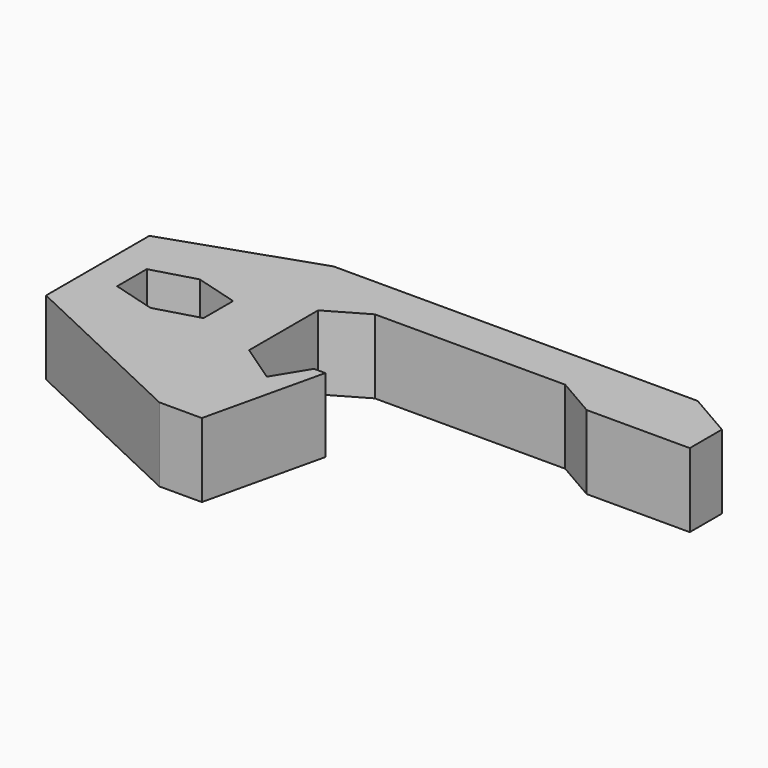
from build123d import *

# Parameters (mm, degrees)
F1_DEPTH = 6
F2_SIZE  = 1.5


with BuildPart() as f1:
    # F0 (on Top) → F1 (new body)
    with BuildSketch(Plane.XY):
        Polygon((20.780653, 12.658395), (-1.74311, 12.658395), (-17.868141, 7.144866), (-17.868141, -2.784012), (-13.30795, -4.319267), (-3.109024, -10.286578), (0.33303, -10.286578), (2.583084, -0.582101), (1.663224, -0.582101), (0, -3.286578), (-3.143075, -1.150859), (-3.143075, 5.84374), (0, 7.658395), (15.440907, 7.658395), (18.67028, 5.793917), (27.028897, 5.793917), (27.028897, 9.05097), align=None)
        Polygon((-15.143075, 0.478634), (-15.143075, 3.478634), (-11.643075, 4.478634), (-8.143075, 3.478634), (-8.143075, 0.478634), (-11.643075, -0.521366), align=None, mode=Mode.SUBTRACT)
        Polygon((-13.30795, -4.319267), (-17.868141, -2.784012), (-17.868141, -3.318133), (-3.109024, -10.286578), align=None)
    extrude(amount=F1_DEPTH)

    # F2
    f2_edges = [f1.edges().sort_by_distance(p)[0] for p in [
        (9.518772, 12.658395, 6),
        (9.518772, 12.658395, 0),
    ]]
    chamfer(f2_edges, length=F2_SIZE)


solid = f1.part
